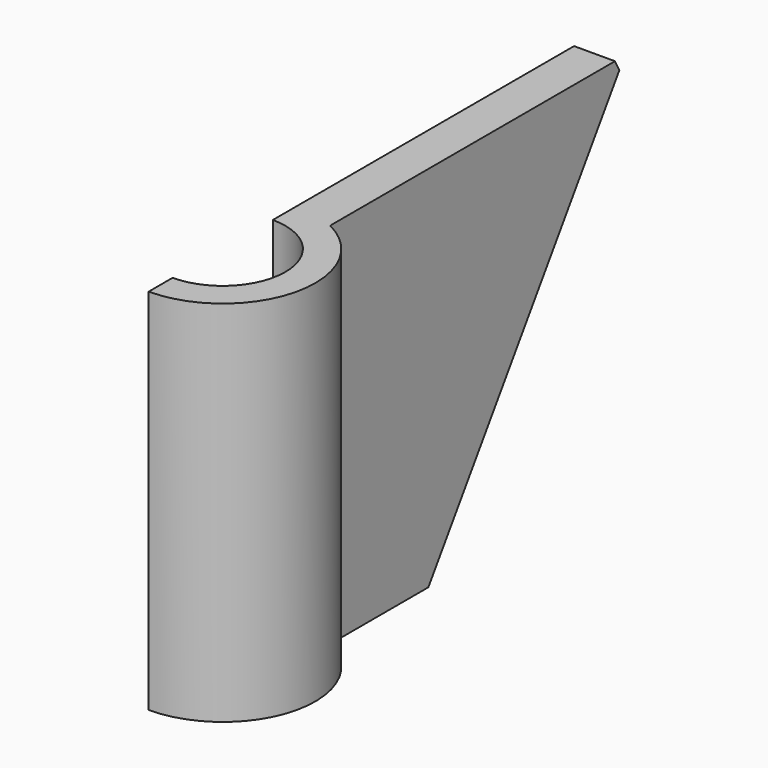
from build123d import *

# Parameters (mm, degrees)
PAD_DEPTH       = 114.3
SKETCH001_W     = 2.54
SKETCH001_H     = 12.7
POCKET_DEPTH    = 12.701
POCKET001_DEPTH = 12.701
CHAMFER_SIZE    = 3.81


with BuildPart() as part:
    # Sketch → Pad (new body)
    with BuildSketch(Plane.XY):
        with BuildLine():
            Line((0, 140.081), (12.7, 140.081))
            Line((12.7, 140.081), (12.7, 25.781))
            ThreePointArc((0, -28.739345), (27.989989, -6.520004), (12.7, 25.781))
            Line((0, -19.431), (0, -28.739345))
            ThreePointArc((0, -19.431), (19.431, 0), (0, 19.431))
            Line((0, 140.081), (0, 19.431))
        make_face()
    extrude(amount=PAD_DEPTH)

    # Sketch001 (on Face2 of Pad) → Pocket (cut, through all)
    with BuildSketch(Plane.YZ.offset(12.7)):
        with Locations((27.051, 12.7)):
            Rectangle(SKETCH001_W, SKETCH001_H)
        with Locations((27.051, 101.6)):
            Rectangle(SKETCH001_W, SKETCH001_H)
    extrude(amount=-POCKET_DEPTH, mode=Mode.SUBTRACT)

    # Sketch002 → Pocket001 (cut, through all)
    with BuildSketch(Plane.YZ.offset(12.7)):
        Polygon((63.881, 0), (140.081, 114.3), (140.081, 0), align=None)
    extrude(amount=-POCKET001_DEPTH, mode=Mode.SUBTRACT)

    # Chamfer
    chamfer_edges = [part.edges().sort_by_distance(p)[0] for p in [
        (6.35, 140.081, 114.3),
    ]]
    chamfer(chamfer_edges, length=CHAMFER_SIZE)


solid = part.part
